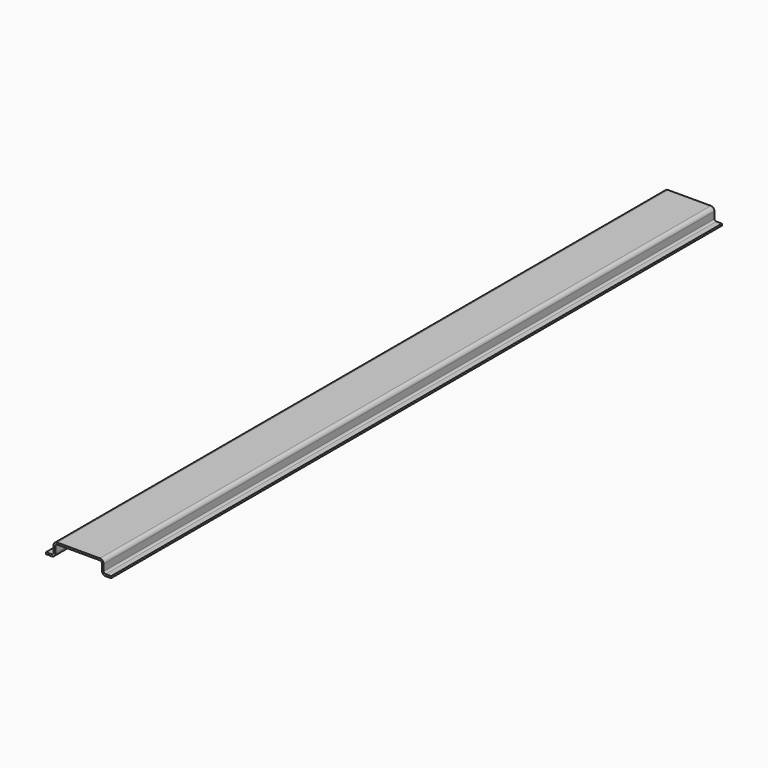
from build123d import *

# Parameters (mm, degrees)
F1_DEPTH = 205.5


with BuildPart() as f1:
    # F0 (on Front) → F1 (new body, symmetric)
    with BuildSketch(Plane.XZ):
        with BuildLine():
            ThreePointArc((-12.5, 5), (-12.207107, 5.707107), (-11.5, 6))
            Line((-11.5, 6), (11.5, 6))
            ThreePointArc((11.5, 6), (12.207107, 5.707107), (12.5, 5))
            Line((12.5, 5), (12.5, 1.5))
            ThreePointArc((12.5, 1.5), (13.085786, 0.085786), (14.5, -0.5))
            Line((14.5, -0.5), (17.5, -0.5))
            Line((17.5, -0.5), (17.5, 0))
            Line((17.5, 0), (17.5, 0.5))
            Line((17.5, 0.5), (14.5, 0.5))
            ThreePointArc((14.5, 0.5), (13.792893, 0.792893), (13.5, 1.5))
            Line((13.5, 1.5), (13.5, 5))
            ThreePointArc((13.5, 5), (12.914214, 6.414214), (11.5, 7))
            Line((11.5, 7), (-11.5, 7))
            ThreePointArc((-11.5, 7), (-12.914214, 6.414214), (-13.5, 5))
            Line((-13.5, 5), (-13.5, 1.5))
            ThreePointArc((-13.5, 1.5), (-13.792893, 0.792893), (-14.5, 0.5))
            Line((-14.5, 0.5), (-17.5, 0.5))
            Line((-17.5, 0.5), (-17.5, 0))
            Line((-17.5, 0), (-17.5, -0.5))
            Line((-17.5, -0.5), (-14.5, -0.5))
            ThreePointArc((-14.5, -0.5), (-13.085786, 0.085786), (-12.5, 1.5))
            Line((-12.5, 1.5), (-12.5, 5))
        make_face()
    extrude(amount=F1_DEPTH, both=True)


solid = f1.part
